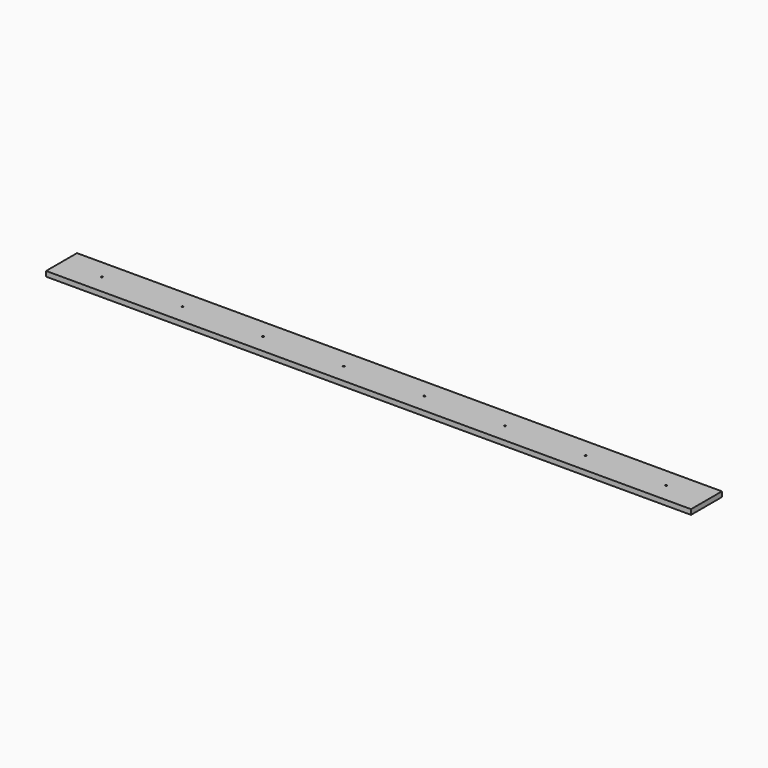
from build123d import *

# Parameters (mm, degrees)
F0_W     = 292.1
F0_H     = 38.1
F1_DEPTH = 4876.8
F2_R     = 6.35
F3_DEPTH = 38.101


with BuildPart() as f1:
    # F0 (on Right) → F1 (new body)
    with BuildSketch(Plane.YZ):
        with Locations((146.05, 19.05)):
            Rectangle(F0_W, F0_H)
    extrude(amount=F1_DEPTH)

    # F2 (on face) → F3 (cut, through all)
    with BuildSketch(Plane(origin=(0, 0, 0), x_dir=(1, 0, 0), z_dir=(0, 0, -1))):
        with Locations((304.8, -146.05)):
            Circle(F2_R)
        with Locations((914.4, -146.05)):
            Circle(F2_R)
        with Locations((1524, -146.05)):
            Circle(F2_R)
        with Locations((3962.4, -146.05)):
            Circle(F2_R)
        with Locations((2133.6, -146.05)):
            Circle(F2_R)
        with Locations((2743.2, -146.05)):
            Circle(F2_R)
        with Locations((3352.8, -146.05)):
            Circle(F2_R)
        with Locations((4572, -146.05)):
            Circle(F2_R)
    extrude(amount=-F3_DEPTH, mode=Mode.SUBTRACT)


solid = f1.part
